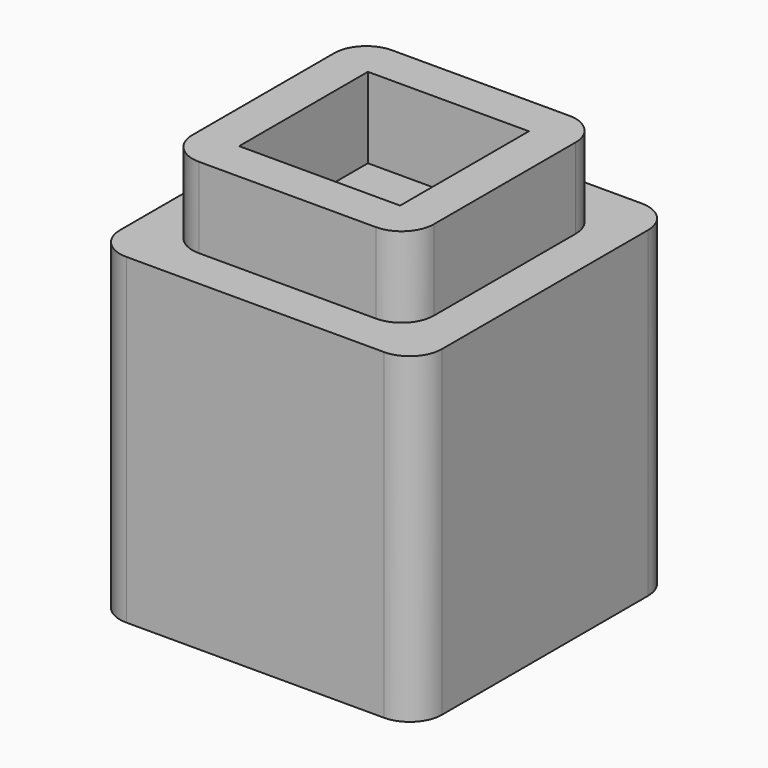
from build123d import *

# Parameters (mm, degrees)
F0_W     = 25.4
F0_H     = 25.4
F1_DEPTH = 25.4
F2_W     = 19.05
F2_H     = 19.05
F3_DEPTH = 19.05
F4_W     = 19.05
F4_H     = 19.05
F4_W_2   = 12.7
F4_H_2   = 12.7
F5_DEPTH = 6.35
F6_R     = 2.54


with BuildPart() as f1:
    # F0 (on Top) → F1 (new body)
    with BuildSketch(Plane.XY):
        with Locations((12.7, -12.7)):
            Rectangle(F0_W, F0_H)
    extrude(amount=F1_DEPTH)

    # F2 (on face) → F3 (cut)
    with BuildSketch(Plane(origin=(0, 0, 0), x_dir=(1, 0, 0), z_dir=(0, 0, -1))):
        with Locations((12.7, 12.7)):
            Rectangle(F2_W, F2_H)
    extrude(amount=-F3_DEPTH, mode=Mode.SUBTRACT)

    # F4 (on face) → F5 (join)
    with BuildSketch(Plane.XY.offset(25.4)):
        with Locations((12.7, -12.7)):
            Rectangle(F4_W, F4_H)
        with Locations((12.7, -12.7)):
            Rectangle(F4_W_2, F4_H_2, mode=Mode.SUBTRACT)
    extrude(amount=F5_DEPTH)

    # F6
    f6_edges = [f1.edges().sort_by_distance(p)[0] for p in [
        (0, 0, 12.7),
        (0, -25.4, 12.7),
        (25.4, 0, 12.7),
        (3.175, -3.175, 28.575),
        (3.175, -22.225, 28.575),
        (22.225, -3.175, 28.575),
        (22.225, -22.225, 28.575),
        (25.4, -25.4, 12.7),
    ]]
    fillet(f6_edges, radius=F6_R)


solid = f1.part
